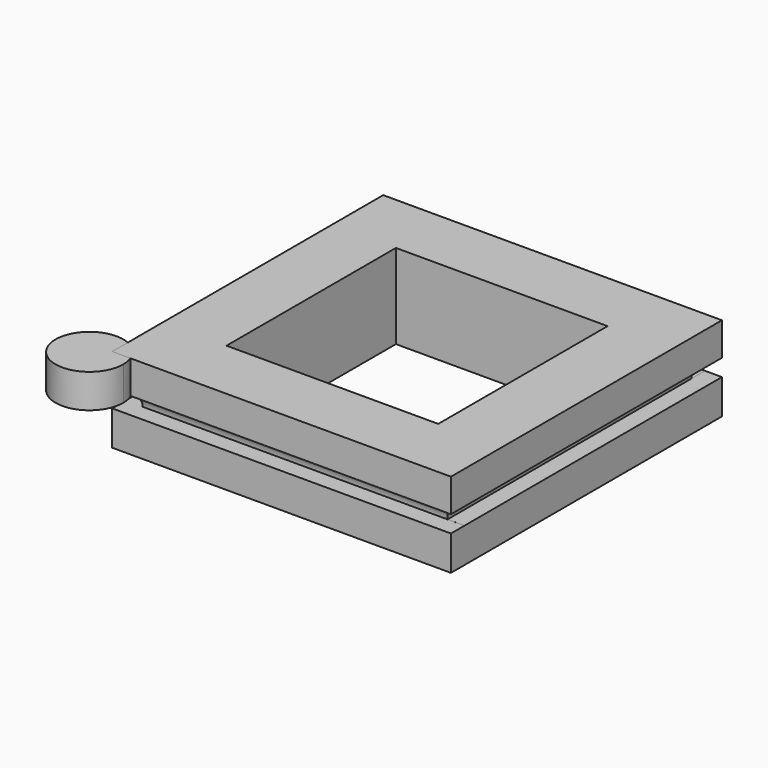
from build123d import *

# Parameters (mm, degrees)
F0_W      = 40
F0_H      = 40
F1_DEPTH  = 10
F2_W      = 25
F2_H      = 25
F3_DEPTH  = 10
F4_W      = 40
F4_H      = 2
F5_DEPTH  = 2
F6_W      = 38
F6_H      = 1.9991408549
F7_DEPTH  = 2
F9_DEPTH  = 2
F10_W     = 36
F10_H     = 2
F11_DEPTH = 2
F12_R     = 1.999
F13_R     = 1.999
F16_DEPTH = 4


with BuildPart() as f1:
    # F0 (on Top) → F1 (new body)
    with BuildSketch(Plane.XY):
        Rectangle(F0_W, F0_H)
    extrude(amount=F1_DEPTH)

    # F2 (on face) → F3 (cut)
    with BuildSketch(Plane.XY.offset(10)):
        Rectangle(F2_W, F2_H)
    extrude(amount=-F3_DEPTH, mode=Mode.SUBTRACT)

    # F4 (on face) → F5 (cut)
    with BuildSketch(Plane.XZ.offset(20)):
        with Locations((0, 5.0947766975)):
            Rectangle(F4_W, F4_H)
    extrude(amount=-F5_DEPTH, mode=Mode.SUBTRACT)

    # F6 (on face) → F7 (cut)
    with BuildSketch(Plane.YZ.offset(20)):
        with Locations((1, 5.09520627)):
            Rectangle(F6_W, F6_H)
    extrude(amount=-F7_DEPTH, mode=Mode.SUBTRACT)

    # F8 (on face) → F9 (cut)
    with BuildSketch(Plane(origin=(0, 20, 0), x_dir=(-1, 0, 0), z_dir=(0, 1, 0))):
        Polygon((20, 6.0947766975), (-18, 6.0947766975), (-18, 4.0956358425), (-18, 4.0922258049), (20, 4.0922258049), align=None)
    extrude(amount=-F9_DEPTH, mode=Mode.SUBTRACT)

    # F10 (on face) → F11 (cut)
    with BuildSketch(Plane(origin=(-20, 0, 0), x_dir=(0, -1, 0), z_dir=(-1, 0, 0))):
        with Locations((0, 5.0947766975)):
            Rectangle(F10_W, F10_H)
    extrude(amount=-F11_DEPTH, mode=Mode.SUBTRACT)

    # F12
    f12_edges = [f1.edges().sort_by_distance(p)[0] for p in [
        (18, 0, 6.094777),
        (0, 18, 6.094777),
    ]]
    fillet(f12_edges, radius=F12_R)

    # F13
    f13_edges = [f1.edges().sort_by_distance(p)[0] for p in [
        (0, -18, 6.094777),
        (-18, 0, 6.094777),
    ]]
    fillet(f13_edges, radius=F13_R)


with BuildPart() as f16:
    # F15 (on face) → F16 (new body)
    with BuildSketch(Plane.XY.offset(10)):
        with BuildLine():
            ThreePointArc((-20, -17.6912108758), (-24.9485205647, -23.5468684721), (-17.6014478566, -21.3566391949))
            ThreePointArc((-17.6014478566, -21.3566391949), (-17.6611648449, -20.6680393198), (-17.8385327506, -20))
            Line((-17.8385327506, -20), (-20, -20))
            Line((-20, -20), (-20, -17.6912108758))
        make_face()
    extrude(amount=-F16_DEPTH)


solid = Compound([f1.part, f16.part])
